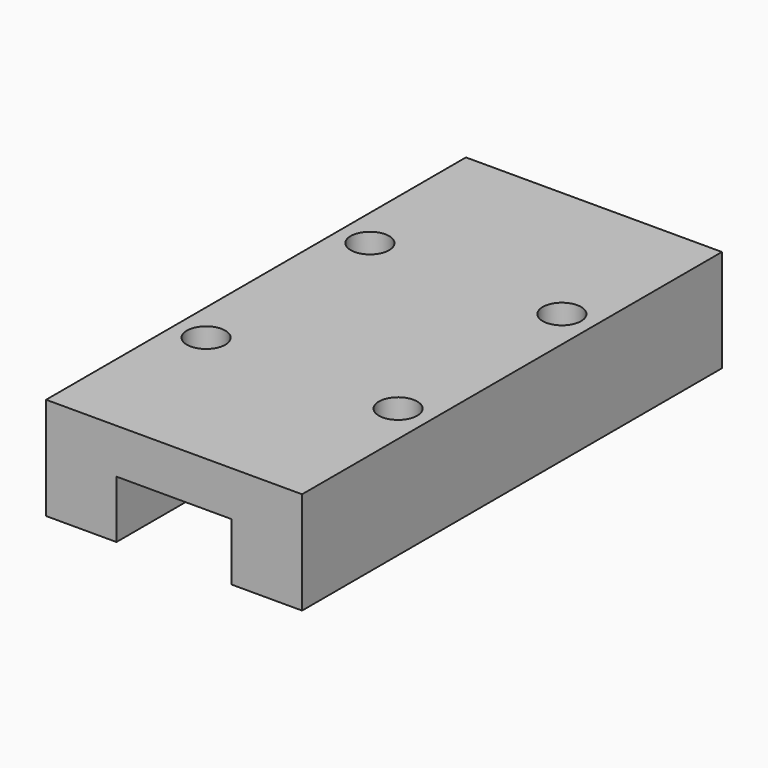
from build123d import *

# Parameters (mm, degrees)
F0_W     = 20
F0_H     = 8
F1_DEPTH = 20.5
F2_W     = 9
F2_H     = 4.5
F3_DEPTH = 41.001
F4_R     = 1.5
F5_DEPTH = 5


with BuildPart() as f1:
    # F0 (on Front) → F1 (new body, symmetric)
    with BuildSketch(Plane.XZ):
        Rectangle(F0_W, F0_H)
    extrude(amount=F1_DEPTH, both=True)

    # F2 (on face) → F3 (cut, through all)
    with BuildSketch(Plane.XZ.offset(20.5)):
        with Locations((0, -1.75)):
            Rectangle(F2_W, F2_H)
    extrude(amount=-F3_DEPTH, mode=Mode.SUBTRACT)

    # F4 (on face) → F5 (cut)
    with BuildSketch(Plane.XY.offset(4)):
        with Locations((-7.5, 8)):
            Circle(F4_R)
        with Locations((7.5, 8)):
            Circle(F4_R)
        with Locations((7.5, -8)):
            Circle(F4_R)
        with Locations((-7.5, -8)):
            Circle(F4_R)
    extrude(amount=-F5_DEPTH, mode=Mode.SUBTRACT)


solid = f1.part
